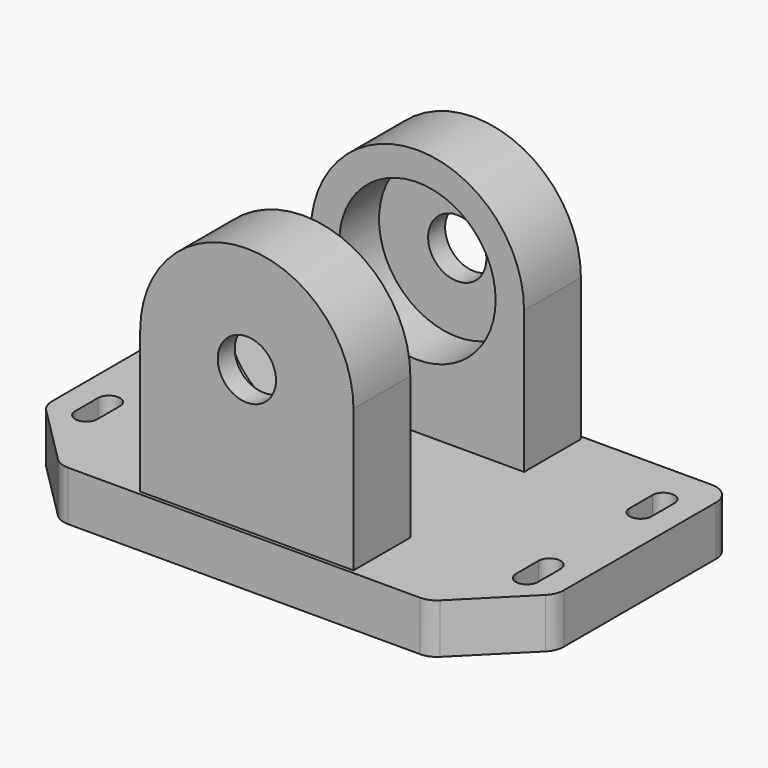
from build123d import *

# Parameters (mm, degrees)
SKETCH004_R     = 4.1
PAD002_DEPTH    = 10
SKETCH005_R     = 11
POCKET001_DEPTH = 7
PAD_DEPTH       = 7
FILLET_R        = 3
SKETCH002_R     = 4.1
PAD001_DEPTH    = 10
SKETCH003_R     = 11
POCKET_DEPTH    = 7


with BuildPart() as pocket001:
    # Sketch004 → Pad002 (new body)
    with BuildSketch(Plane.XZ.offset(15)):
        with BuildLine():
            Line((-15, 7), (15, 7))
            Line((15, 7), (15, 27))
            ThreePointArc((15, 27), (0, 42.000006), (-15, 27))
            Line((-15, 7), (-15, 27))
        make_face()
        with Locations((0, 27.000006)):
            Circle(SKETCH004_R, mode=Mode.SUBTRACT)
    extrude(amount=PAD002_DEPTH)

    # Sketch005 → Pocket001 (cut)
    with BuildSketch(Plane(origin=(0, -15, 0), x_dir=(1, 0, 0), z_dir=(0, 1, 0))):
        with Locations((0, -27.000006)):
            Circle(SKETCH005_R)
    extrude(amount=-POCKET001_DEPTH, mode=Mode.SUBTRACT)


with BuildPart() as grundplatte001:
    # Sketch → Pad (new body)
    with BuildSketch(Plane.XY):
        Polygon((-36, 15.5), (-36, -15.5), (-26, -25.5), (26, -25.5), (36, -15.5), (36, 15.5), align=None)
        with BuildLine():
            Line((-32.53033, 9.500002), (-32.53033, 5.5))
            ThreePointArc((-32.53033, 5.5), (-31, 3.96967), (-29.46967, 5.5))
            Line((-29.46967, 9.500002), (-29.46967, 5.5))
            ThreePointArc((-29.46967, 9.500002), (-31, 11.03033), (-32.53033, 9.500002))
        make_face(mode=Mode.SUBTRACT)
        with BuildLine():
            Line((-32.55, -10.499998), (-32.55, -14.5))
            ThreePointArc((-32.55, -14.5), (-31, -16.05), (-29.45, -14.5))
            Line((-29.45, -10.499998), (-29.45, -14.5))
            ThreePointArc((-29.45, -10.499998), (-31, -8.95), (-32.55, -10.499998))
        make_face(mode=Mode.SUBTRACT)
        with BuildLine():
            Line((29.45, -10.500011), (29.45, -14.500004))
            ThreePointArc((29.45, -14.500004), (31, -16.05), (32.55, -14.500004))
            Line((32.55, -14.500004), (32.55, -10.500011))
            ThreePointArc((32.55, -10.500011), (31, -8.95), (29.45, -10.500011))
        make_face(mode=Mode.SUBTRACT)
        with BuildLine():
            Line((32.55, 9.500002), (32.55, 5.5))
            ThreePointArc((29.45, 5.5), (31, 3.95), (32.55, 5.5))
            Line((29.45, 9.500002), (29.45, 5.5))
            ThreePointArc((32.55, 9.500002), (31, 11.05), (29.45, 9.500002))
        make_face(mode=Mode.SUBTRACT)
    extrude(amount=PAD_DEPTH)

    # Fillet
    fillet_edges = [grundplatte001.edges().sort_by_distance(p)[0] for p in [
        (26, -25.5, 3.5),
        (-26, -25.5, 3.5),
        (36, -15.5, 3.5),
        (-36, -15.5, 3.5),
        (36, 15.5, 3.5),
        (-36, 15.5, 3.5),
    ]]
    fillet(fillet_edges, radius=FILLET_R)


with BuildPart() as fusion001:
    # Fusion001 base: copy of Grundplatte001
    add(grundplatte001.part)

    # Fusion001: union Pocket001
    add(pocket001.part)


with BuildPart() as lagerbock:
    # Sketch002 → Pad001 (new body)
    with BuildSketch(Plane.XZ.offset(-15)):
        with BuildLine():
            Line((-15, 7), (15, 7))
            Line((15, 7), (15, 27))
            ThreePointArc((15, 27), (0, 42.000006), (-15, 27))
            Line((-15, 7), (-15, 27))
        make_face()
        with Locations((0, 27.000006)):
            Circle(SKETCH002_R, mode=Mode.SUBTRACT)
    extrude(amount=PAD001_DEPTH)

    # Sketch003 → Pocket (cut)
    with BuildSketch(Plane.XZ.offset(-5)):
        with Locations((0, 27.000006)):
            Circle(SKETCH003_R)
    extrude(amount=-POCKET_DEPTH, mode=Mode.SUBTRACT)


with BuildPart() as fusion002:
    # Fusion base: copy of Grundplatte001
    add(grundplatte001.part)

    # Fusion: union Lagerbock
    add(lagerbock.part)

    # Fusion002: union Fusion001
    add(fusion001.part)


solid = fusion002.part
